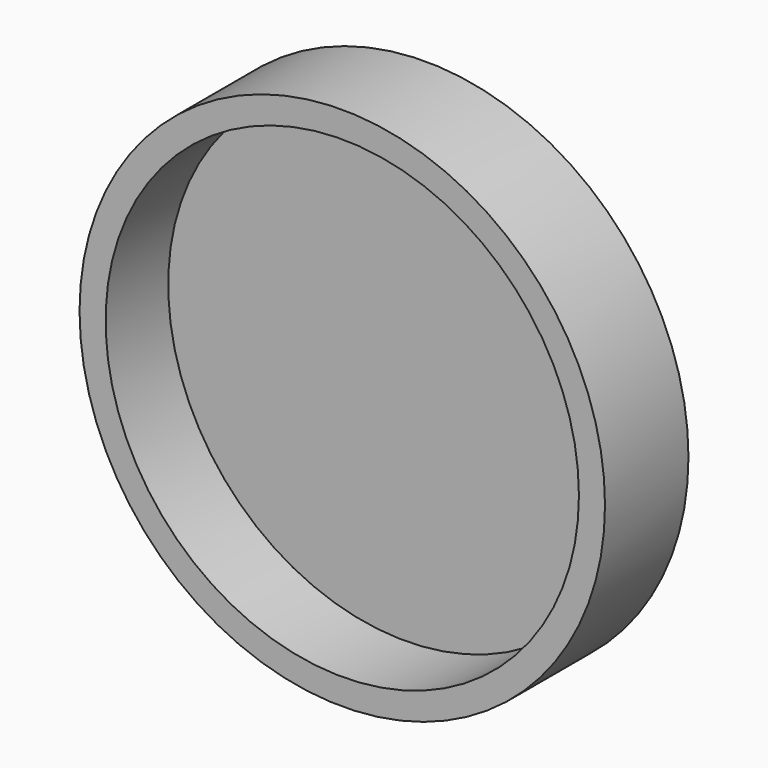
from build123d import *

# Parameters (mm, degrees)
F0_R     = 25.1852873168
F1_DEPTH = 10
F2_T     = -2.5
F3_W     = 5.0779422745
F3_H     = 10.067243129
F4_DEPTH = 5
F5_R     = 1
F7_D     = 3


with BuildPart() as f1:
    # F0 (on Front) → F1 (new body)
    with BuildSketch(Plane.XZ):
        Circle(F0_R)
        Circle(F0_R)
    extrude(amount=F1_DEPTH)

    # F2
    f2_openings = [f1.faces().sort_by_distance(p)[0] for p in [
        (0, -10, 0),
    ]]
    offset(amount=F2_T, openings=f2_openings)

    # F3 (on face) → F4 (join)
    with BuildSketch(Plane(origin=(0, 0, 0), x_dir=(-1, 0, 0), z_dir=(0, 1, 0))):
        with Locations((10.6177399866, 5.0336215645)):
            Rectangle(F3_W, F3_H)
    extrude(amount=F4_DEPTH)

    # F5
    f5_edges = [f1.edges().sort_by_distance(p)[0] for p in [
        (-8.078769, 5, 5.033622),
        (-10.61774, 5, 0),
        (-13.156711, 5, 5.033622),
        (-10.61774, 5, 10.067243),
    ]]
    fillet(f5_edges, radius=F5_R)

    # F7 (through all)
    with Locations(Plane(origin=(0, 0, 0), x_dir=(1, 0, 0), z_dir=(0, 0, -1))):
        with Locations((-10.6769287959, -1.9884661306)):
            Hole(F7_D / 2)


solid = f1.part
